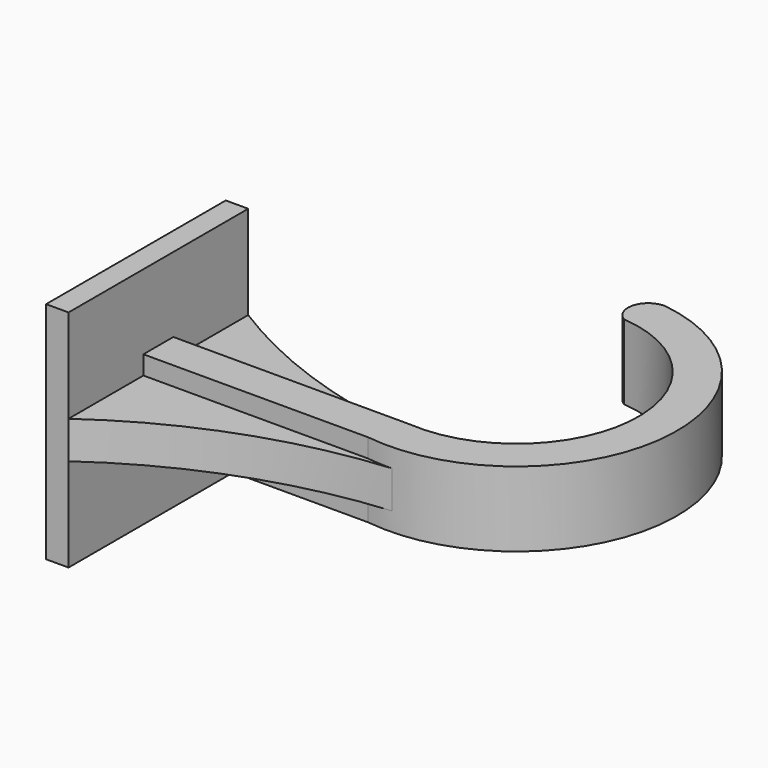
from build123d import *

# Parameters (mm, degrees)
PAD_DEPTH    = 10
SKETCH001_W  = 30
SKETCH001_H  = 30
PAD001_DEPTH = 3
PAD002_DEPTH = 5


with BuildPart() as part:
    # Sketch → Pad (new body)
    with BuildSketch(Plane.XY):
        with BuildLine():
            Line((0, 0), (30, 0))
            ThreePointArc((30, 0), (54.07202, 18.385627), (35.736453, 42.495799))
            ThreePointArc((35.736453, 42.495799), (33.00775, 40.598561), (34.198631, 37.495799))
            ThreePointArc((31.598491, 5), (49.072145, 19.953776), (34.198631, 37.495799))
            Line((0, 5), (31.598491, 5))
            Line((0, 0), (0, 5))
        make_face()
    extrude(amount=PAD_DEPTH)

    # Sketch001 → Pad001 (join)
    with BuildSketch(Plane.YZ):
        with Locations((2.5, 5)):
            Rectangle(SKETCH001_W, SKETCH001_H)
    extrude(amount=-PAD001_DEPTH)

    # Sketch002 → Pad002 (join)
    with BuildSketch(Plane.XY.offset(2.5)):
        with BuildLine():
            ThreePointArc((0, 17.5), (19.159552, 9.062724), (39.948439, 6.593251))
            Line((39.948439, 6.593251), (35.370493, -0.035051))
            ThreePointArc((35.370493, -0.035051), (16.800197, -3.756112), (0, -12.5))
            Line((0, 17.5), (0, -12.5))
        make_face()
    extrude(amount=PAD002_DEPTH)


solid = part.part
